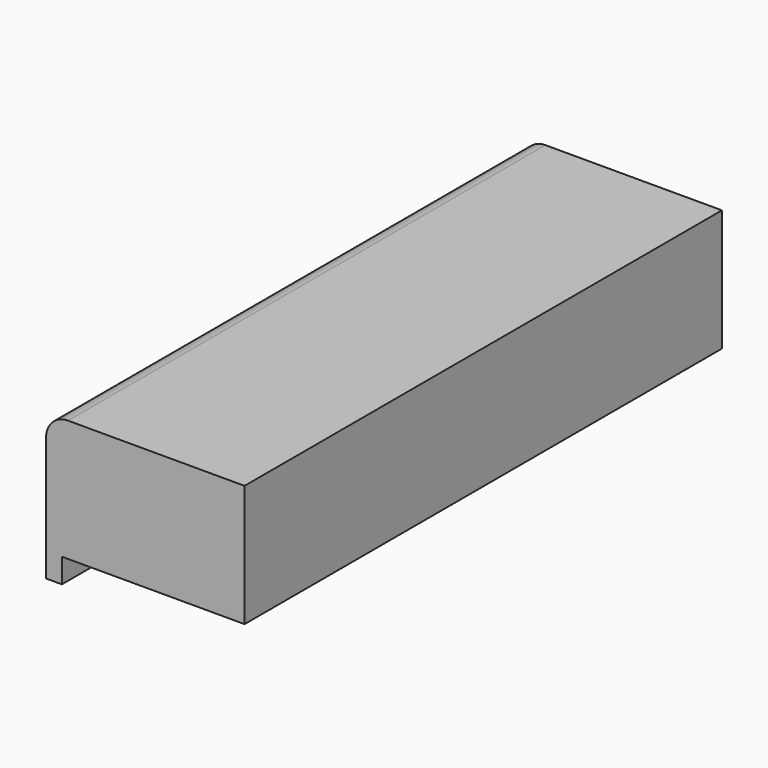
from build123d import *

# Parameters (mm, degrees)
PAD_DEPTH = 490
FILLET_R  = 18


with BuildPart() as part:
    # Sketch → Pad (new body)
    with BuildSketch(Plane.XZ):
        Polygon((0, 0), (150, 0), (150, 100), (0, 100), (-13, 100), (-13, -20), (0, -20), align=None)
    extrude(amount=-PAD_DEPTH)

    # Fillet
    fillet_edges = [part.edges().sort_by_distance(p)[0] for p in [
        (-13, 245, 100),
    ]]
    fillet(fillet_edges, radius=FILLET_R)


solid = part.part
